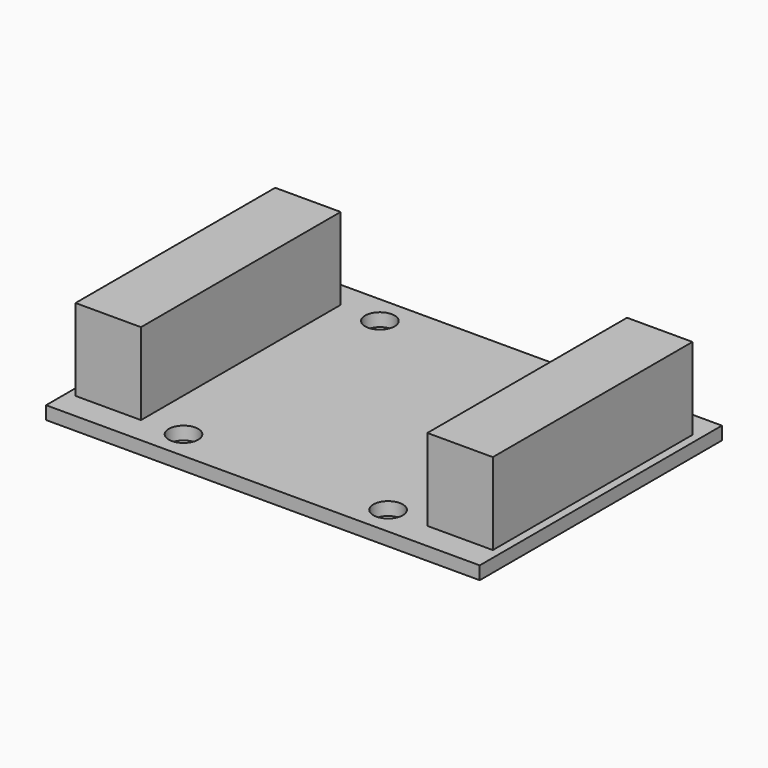
from build123d import *

# Parameters (mm, degrees)
F0_W     = 53
F0_H     = 37
F1_DEPTH = 1.6
F2_W     = 8
F2_H     = 30.5
F3_DEPTH = 10
F4_R     = 1.8
F5_DEPTH = 1.6


with BuildPart() as f1:
    # F0 (on Top) → F1 (new body)
    with BuildSketch(Plane.XY):
        Rectangle(F0_W, F0_H)
    extrude(amount=F1_DEPTH)

    # F2 (on face) → F3 (join)
    with BuildSketch(Plane.XY.offset(1.6)):
        with Locations((21.5, 0)):
            Rectangle(F2_W, F2_H)
        with Locations((-21.5, 0)):
            Rectangle(F2_W, F2_H)
    extrude(amount=F3_DEPTH)

    # F4 (on face) → F5 (cut, through all)
    with BuildSketch(Plane.XY.offset(1.6)):
        with Locations((12.5, -15)):
            Circle(F4_R)
        with Locations((12.5, 15)):
            Circle(F4_R)
        with Locations((-12.5, 15)):
            Circle(F4_R)
        with Locations((-12.5, -15)):
            Circle(F4_R)
    extrude(amount=-F5_DEPTH, mode=Mode.SUBTRACT)


solid = f1.part
